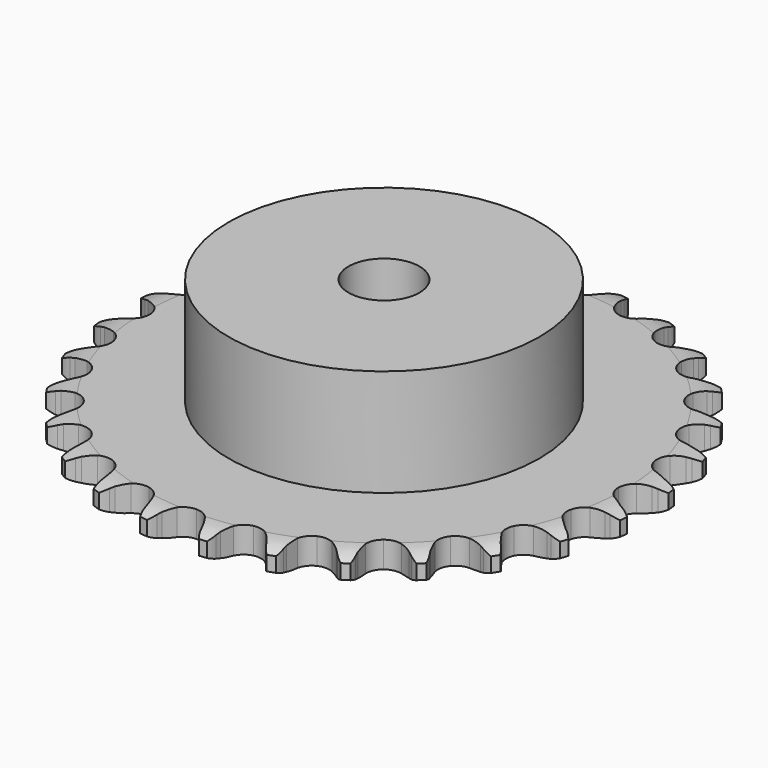
from build123d import *

# Parameters (mm, degrees)
PAD_DEPTH         = 5.9
SKETCH001_R       = 35
PAD001_DEPTH      = 30
SKETCH002_R       = 8
POCKET_DEPTH      = 0.001
POCKET_DEPTH_BACK = 30.001


with BuildPart() as part:
    # Sprocket → Pad (new body)
    with BuildSketch(Plane.XY):
        with BuildLine():
            ThreePointArc((-6.807169, 60.415297), (-5.673583, 59.223567), (-4.885801, 57.779739))
            Line((-4.885801, 57.779739), (-4.508176, 56.803276))
            ThreePointArc((-4.508176, 56.803276), (-3.907565, 55.523602), (-3.134704, 54.339971))
            ThreePointArc((-3.134704, 54.339971), (-1.750273, 53.192925), (0, 52.781942))
            ThreePointArc((0, 52.781942), (1.750273, 53.192925), (3.134704, 54.339971))
            ThreePointArc((3.134704, 54.339971), (3.907565, 55.523602), (4.508176, 56.803276))
            Line((4.508176, 56.803276), (4.885801, 57.779739))
            ThreePointArc((4.885801, 57.779739), (5.673583, 59.223567), (6.807169, 60.415297))
            ThreePointArc((6.807169, 60.415297), (7.647149, 59.001199), (8.093898, 57.418273))
            Line((8.093898, 57.418273), (8.244772, 56.382263))
            ThreePointArc((8.244772, 56.382263), (8.545569, 55.001025), (9.035671, 53.675092))
            ThreePointArc((9.035671, 53.675092), (10.130149, 52.24874), (11.745087, 51.458589))
            ThreePointArc((11.745087, 51.458589), (13.542929, 51.469795), (15.147891, 52.280018))
            Line((15.147891, 52.280018), (17.035064, 54.375936))
            ThreePointArc((17.035064, 54.375936), (17.316567, 54.817478), (17.620505, 55.243887))
            ThreePointArc((17.620505, 55.243887), (18.709818, 56.476217), (20.080167, 57.385822))
            ThreePointArc((20.080167, 57.385822), (20.584421, 55.820265), (20.667735, 54.177615))
            Line((20.667735, 54.177615), (20.584292, 53.134007))
            ThreePointArc((20.584292, 53.134007), (20.570194, 51.720466), (20.75296, 50.318719))
            ThreePointArc((20.75296, 50.318719), (21.502604, 48.684585), (22.901226, 47.554887))
            ThreePointArc((22.901226, 47.554887), (24.656487, 47.165755), (26.4015, 47.598526))
            Line((26.4015, 47.598526), (28.707744, 49.221959))
            ThreePointArc((28.707744, 49.221959), (29.080441, 49.589791), (29.471644, 49.937876))
            ThreePointArc((29.471644, 49.937876), (30.807864, 50.896915), (32.346262, 51.478782))
            ThreePointArc((32.346262, 51.478782), (32.489504, 49.84027), (32.205205, 48.220266))
            Line((32.205205, 48.220266), (31.89163, 47.221391))
            ThreePointArc((31.89163, 47.221391), (31.563342, 45.846427), (31.429608, 44.439156))
            ThreePointArc((31.429608, 44.439156), (31.796828, 42.679181), (32.909003, 41.266584))
            ThreePointArc((32.909003, 41.266584), (34.533665, 40.496626), (36.331228, 40.530245))
            Line((36.331228, 40.530245), (38.940897, 41.599788))
            ThreePointArc((38.940897, 41.599788), (39.3861, 41.875464), (39.844951, 42.127772))
            ThreePointArc((39.844951, 42.127772), (41.361075, 42.765428), (42.990381, 42.990381))
            ThreePointArc((42.990381, 42.990381), (42.765428, 41.361075), (42.127772, 39.844951))
            Line((42.127772, 39.844951), (41.599788, 38.940897))
            ThreePointArc((41.599788, 38.940897), (40.973773, 37.673457), (40.530245, 36.331228))
            ThreePointArc((40.530245, 36.331228), (40.496626, 34.533665), (41.266584, 32.909003))
            ThreePointArc((41.266584, 32.909003), (42.679181, 31.796828), (44.439156, 31.429608))
            Line((44.439156, 31.429608), (47.221391, 31.89163))
            ThreePointArc((47.221391, 31.89163), (47.716776, 32.061327), (48.220266, 32.205205))
            ThreePointArc((48.220266, 32.205205), (49.84027, 32.489504), (51.478782, 32.346262))
            ThreePointArc((51.478782, 32.346262), (50.896915, 30.807864), (49.937876, 29.471644))
            Line((49.937876, 29.471644), (49.221959, 28.707744))
            ThreePointArc((49.221959, 28.707744), (48.329608, 27.611383), (47.598526, 26.4015))
            ThreePointArc((47.598526, 26.4015), (47.165755, 24.656487), (47.554887, 22.901226))
            ThreePointArc((47.554887, 22.901226), (48.684585, 21.502604), (50.318719, 20.75296))
            Line((50.318719, 20.75296), (53.134007, 20.584292))
            ThreePointArc((53.134007, 20.584292), (53.654733, 20.639501), (54.177615, 20.667735))
            ThreePointArc((54.177615, 20.667735), (55.820265, 20.584421), (57.385822, 20.080167))
            ThreePointArc((57.385822, 20.080167), (56.476217, 18.709818), (55.243887, 17.620505))
            Line((55.243887, 17.620505), (54.375936, 17.035064))
            ThreePointArc((54.375936, 17.035064), (53.261995, 16.164758), (52.280018, 15.147891))
            ThreePointArc((52.280018, 15.147891), (51.469795, 13.542929), (51.458589, 11.745087))
            ThreePointArc((51.458589, 11.745087), (52.24874, 10.130149), (53.675092, 9.035671))
            Line((53.675092, 9.035671), (56.382263, 8.244772))
            ThreePointArc((56.382263, 8.244772), (56.902218, 8.182724), (57.418273, 8.093898))
            ThreePointArc((57.418273, 8.093898), (59.001199, 7.647149), (60.415297, 6.807169))
            ThreePointArc((60.415297, 6.807169), (59.223567, 5.673583), (57.779739, 4.885801))
            Line((57.779739, 4.885801), (56.803276, 4.508176))
            ThreePointArc((56.803276, 4.508176), (55.523602, 3.907565), (54.339971, 3.134704))
            ThreePointArc((54.339971, 3.134704), (53.192925, 1.750273), (52.781942, 0))
            ThreePointArc((52.781942, 0), (53.192925, -1.750273), (54.339971, -3.134704))
            Line((54.339971, -3.134704), (56.803276, -4.508176))
            ThreePointArc((56.803276, -4.508176), (57.296388, -4.684368), (57.779739, -4.885801))
            ThreePointArc((57.779739, -4.885801), (59.223567, -5.673583), (60.415297, -6.807169))
            ThreePointArc((60.415297, -6.807169), (59.001199, -7.647149), (57.418273, -8.093898))
            Line((57.418273, -8.093898), (56.382263, -8.244772))
            ThreePointArc((56.382263, -8.244772), (55.001025, -8.545569), (53.675092, -9.035671))
            ThreePointArc((53.675092, -9.035671), (52.24874, -10.130149), (51.458589, -11.745087))
            ThreePointArc((51.458589, -11.745087), (51.469795, -13.542929), (52.280018, -15.147891))
            Line((52.280018, -15.147891), (54.375936, -17.035064))
            ThreePointArc((54.375936, -17.035064), (54.817478, -17.316567), (55.243887, -17.620505))
            ThreePointArc((55.243887, -17.620505), (56.476217, -18.709818), (57.385822, -20.080167))
            ThreePointArc((57.385822, -20.080167), (55.820265, -20.584421), (54.177615, -20.667735))
            Line((54.177615, -20.667735), (53.134007, -20.584292))
            ThreePointArc((53.134007, -20.584292), (51.720466, -20.570194), (50.318719, -20.75296))
            ThreePointArc((50.318719, -20.75296), (48.684585, -21.502604), (47.554887, -22.901226))
            ThreePointArc((47.554887, -22.901226), (47.165755, -24.656487), (47.598526, -26.4015))
            Line((47.598526, -26.4015), (49.221959, -28.707744))
            ThreePointArc((49.221959, -28.707744), (49.589791, -29.080441), (49.937876, -29.471644))
            ThreePointArc((49.937876, -29.471644), (50.896915, -30.807864), (51.478782, -32.346262))
            ThreePointArc((51.478782, -32.346262), (49.84027, -32.489504), (48.220266, -32.205205))
            Line((48.220266, -32.205205), (47.221391, -31.89163))
            ThreePointArc((47.221391, -31.89163), (45.846427, -31.563342), (44.439156, -31.429608))
            ThreePointArc((44.439156, -31.429608), (42.679181, -31.796828), (41.266584, -32.909003))
            ThreePointArc((41.266584, -32.909003), (40.496626, -34.533665), (40.530245, -36.331228))
            Line((40.530245, -36.331228), (41.599788, -38.940897))
            ThreePointArc((41.599788, -38.940897), (41.875464, -39.3861), (42.127772, -39.844951))
            ThreePointArc((42.127772, -39.844951), (42.765428, -41.361075), (42.990381, -42.990381))
            ThreePointArc((42.990381, -42.990381), (41.361075, -42.765428), (39.844951, -42.127772))
            Line((39.844951, -42.127772), (38.940897, -41.599788))
            ThreePointArc((38.940897, -41.599788), (37.673457, -40.973773), (36.331228, -40.530245))
            ThreePointArc((36.331228, -40.530245), (34.533665, -40.496626), (32.909003, -41.266584))
            ThreePointArc((32.909003, -41.266584), (31.796828, -42.679181), (31.429608, -44.439156))
            Line((31.429608, -44.439156), (31.89163, -47.221391))
            ThreePointArc((31.89163, -47.221391), (32.061327, -47.716776), (32.205205, -48.220266))
            ThreePointArc((32.205205, -48.220266), (32.489504, -49.84027), (32.346262, -51.478782))
            ThreePointArc((32.346262, -51.478782), (30.807864, -50.896915), (29.471644, -49.937876))
            Line((29.471644, -49.937876), (28.707744, -49.221959))
            ThreePointArc((28.707744, -49.221959), (27.611383, -48.329608), (26.4015, -47.598526))
            ThreePointArc((26.4015, -47.598526), (24.656487, -47.165755), (22.901226, -47.554887))
            ThreePointArc((22.901226, -47.554887), (21.502604, -48.684585), (20.75296, -50.318719))
            Line((20.75296, -50.318719), (20.584292, -53.134007))
            ThreePointArc((20.584292, -53.134007), (20.639501, -53.654733), (20.667735, -54.177615))
            ThreePointArc((20.667735, -54.177615), (20.584421, -55.820265), (20.080167, -57.385822))
            ThreePointArc((20.080167, -57.385822), (18.709818, -56.476217), (17.620505, -55.243887))
            Line((17.620505, -55.243887), (17.035064, -54.375936))
            ThreePointArc((17.035064, -54.375936), (16.164758, -53.261995), (15.147891, -52.280018))
            ThreePointArc((15.147891, -52.280018), (13.542929, -51.469795), (11.745087, -51.458589))
            ThreePointArc((11.745087, -51.458589), (10.130149, -52.24874), (9.035671, -53.675092))
            Line((9.035671, -53.675092), (8.244772, -56.382263))
            ThreePointArc((8.244772, -56.382263), (8.182724, -56.902218), (8.093898, -57.418273))
            ThreePointArc((8.093898, -57.418273), (7.647149, -59.001199), (6.807169, -60.415297))
            ThreePointArc((6.807169, -60.415297), (5.673583, -59.223567), (4.885801, -57.779739))
            Line((4.885801, -57.779739), (4.508176, -56.803276))
            ThreePointArc((4.508176, -56.803276), (3.907565, -55.523602), (3.134704, -54.339971))
            ThreePointArc((3.134704, -54.339971), (1.750273, -53.192925), (0, -52.781942))
            ThreePointArc((0, -52.781942), (-1.750273, -53.192925), (-3.134704, -54.339971))
            Line((-3.134704, -54.339971), (-4.508176, -56.803276))
            ThreePointArc((-4.508176, -56.803276), (-4.684368, -57.296388), (-4.885801, -57.779739))
            ThreePointArc((-4.885801, -57.779739), (-5.673583, -59.223567), (-6.807169, -60.415297))
            ThreePointArc((-6.807169, -60.415297), (-7.647149, -59.001199), (-8.093898, -57.418273))
            Line((-8.093898, -57.418273), (-8.244772, -56.382263))
            ThreePointArc((-8.244772, -56.382263), (-8.545569, -55.001025), (-9.035671, -53.675092))
            ThreePointArc((-9.035671, -53.675092), (-10.130149, -52.24874), (-11.745087, -51.458589))
            ThreePointArc((-11.745087, -51.458589), (-13.542929, -51.469795), (-15.147891, -52.280018))
            Line((-15.147891, -52.280018), (-17.035064, -54.375936))
            ThreePointArc((-17.035064, -54.375936), (-17.316567, -54.817478), (-17.620505, -55.243887))
            ThreePointArc((-17.620505, -55.243887), (-18.709818, -56.476217), (-20.080167, -57.385822))
            ThreePointArc((-20.080167, -57.385822), (-20.584421, -55.820265), (-20.667735, -54.177615))
            Line((-20.667735, -54.177615), (-20.584292, -53.134007))
            ThreePointArc((-20.584292, -53.134007), (-20.570194, -51.720466), (-20.75296, -50.318719))
            ThreePointArc((-20.75296, -50.318719), (-21.502604, -48.684585), (-22.901226, -47.554887))
            ThreePointArc((-22.901226, -47.554887), (-24.656487, -47.165755), (-26.4015, -47.598526))
            Line((-26.4015, -47.598526), (-28.707744, -49.221959))
            ThreePointArc((-28.707744, -49.221959), (-29.080441, -49.589791), (-29.471644, -49.937876))
            ThreePointArc((-29.471644, -49.937876), (-30.807864, -50.896915), (-32.346262, -51.478782))
            ThreePointArc((-32.346262, -51.478782), (-32.489504, -49.84027), (-32.205205, -48.220266))
            Line((-32.205205, -48.220266), (-31.89163, -47.221391))
            ThreePointArc((-31.89163, -47.221391), (-31.563342, -45.846427), (-31.429608, -44.439156))
            ThreePointArc((-31.429608, -44.439156), (-31.796828, -42.679181), (-32.909003, -41.266584))
            ThreePointArc((-32.909003, -41.266584), (-34.533665, -40.496626), (-36.331228, -40.530245))
            Line((-36.331228, -40.530245), (-38.940897, -41.599788))
            ThreePointArc((-38.940897, -41.599788), (-39.3861, -41.875464), (-39.844951, -42.127772))
            ThreePointArc((-39.844951, -42.127772), (-41.361075, -42.765428), (-42.990381, -42.990381))
            ThreePointArc((-42.990381, -42.990381), (-42.765428, -41.361075), (-42.127772, -39.844951))
            Line((-42.127772, -39.844951), (-41.599788, -38.940897))
            ThreePointArc((-41.599788, -38.940897), (-40.973773, -37.673457), (-40.530245, -36.331228))
            ThreePointArc((-40.530245, -36.331228), (-40.496626, -34.533665), (-41.266584, -32.909003))
            ThreePointArc((-41.266584, -32.909003), (-42.679181, -31.796828), (-44.439156, -31.429608))
            Line((-44.439156, -31.429608), (-47.221391, -31.89163))
            ThreePointArc((-47.221391, -31.89163), (-47.716776, -32.061327), (-48.220266, -32.205205))
            ThreePointArc((-48.220266, -32.205205), (-49.84027, -32.489504), (-51.478782, -32.346262))
            ThreePointArc((-51.478782, -32.346262), (-50.896915, -30.807864), (-49.937876, -29.471644))
            Line((-49.937876, -29.471644), (-49.221959, -28.707744))
            ThreePointArc((-49.221959, -28.707744), (-48.329608, -27.611383), (-47.598526, -26.4015))
            ThreePointArc((-47.598526, -26.4015), (-47.165755, -24.656487), (-47.554887, -22.901226))
            ThreePointArc((-47.554887, -22.901226), (-48.684585, -21.502604), (-50.318719, -20.75296))
            Line((-50.318719, -20.75296), (-53.134007, -20.584292))
            ThreePointArc((-53.134007, -20.584292), (-53.654733, -20.639501), (-54.177615, -20.667735))
            ThreePointArc((-54.177615, -20.667735), (-55.820265, -20.584421), (-57.385822, -20.080167))
            ThreePointArc((-57.385822, -20.080167), (-56.476217, -18.709818), (-55.243887, -17.620505))
            Line((-55.243887, -17.620505), (-54.375936, -17.035064))
            ThreePointArc((-54.375936, -17.035064), (-53.261995, -16.164758), (-52.280018, -15.147891))
            ThreePointArc((-52.280018, -15.147891), (-51.469795, -13.542929), (-51.458589, -11.745087))
            ThreePointArc((-51.458589, -11.745087), (-52.24874, -10.130149), (-53.675092, -9.035671))
            Line((-53.675092, -9.035671), (-56.382263, -8.244772))
            ThreePointArc((-56.382263, -8.244772), (-56.902218, -8.182724), (-57.418273, -8.093898))
            ThreePointArc((-57.418273, -8.093898), (-59.001199, -7.647149), (-60.415297, -6.807169))
            ThreePointArc((-60.415297, -6.807169), (-59.223567, -5.673583), (-57.779739, -4.885801))
            Line((-57.779739, -4.885801), (-56.803276, -4.508176))
            ThreePointArc((-56.803276, -4.508176), (-55.523602, -3.907565), (-54.339971, -3.134704))
            ThreePointArc((-54.339971, -3.134704), (-53.192925, -1.750273), (-52.781942, 0))
            ThreePointArc((-52.781942, 0), (-53.192925, 1.750273), (-54.339971, 3.134704))
            Line((-54.339971, 3.134704), (-56.803276, 4.508176))
            ThreePointArc((-56.803276, 4.508176), (-57.296388, 4.684368), (-57.779739, 4.885801))
            ThreePointArc((-57.779739, 4.885801), (-59.223567, 5.673583), (-60.415297, 6.807169))
            ThreePointArc((-60.415297, 6.807169), (-59.001199, 7.647149), (-57.418273, 8.093898))
            Line((-57.418273, 8.093898), (-56.382263, 8.244772))
            ThreePointArc((-56.382263, 8.244772), (-55.001025, 8.545569), (-53.675092, 9.035671))
            ThreePointArc((-53.675092, 9.035671), (-52.24874, 10.130149), (-51.458589, 11.745087))
            ThreePointArc((-51.458589, 11.745087), (-51.469795, 13.542929), (-52.280018, 15.147891))
            Line((-52.280018, 15.147891), (-54.375936, 17.035064))
            ThreePointArc((-54.375936, 17.035064), (-54.817478, 17.316567), (-55.243887, 17.620505))
            ThreePointArc((-55.243887, 17.620505), (-56.476217, 18.709818), (-57.385822, 20.080167))
            ThreePointArc((-57.385822, 20.080167), (-55.820265, 20.584421), (-54.177615, 20.667735))
            Line((-54.177615, 20.667735), (-53.134007, 20.584292))
            ThreePointArc((-53.134007, 20.584292), (-51.720466, 20.570194), (-50.318719, 20.75296))
            ThreePointArc((-50.318719, 20.75296), (-48.684585, 21.502604), (-47.554887, 22.901226))
            ThreePointArc((-47.554887, 22.901226), (-47.165755, 24.656487), (-47.598526, 26.4015))
            Line((-47.598526, 26.4015), (-49.221959, 28.707744))
            ThreePointArc((-49.221959, 28.707744), (-49.589791, 29.080441), (-49.937876, 29.471644))
            ThreePointArc((-49.937876, 29.471644), (-50.896915, 30.807864), (-51.478782, 32.346262))
            ThreePointArc((-51.478782, 32.346262), (-49.84027, 32.489504), (-48.220266, 32.205205))
            Line((-48.220266, 32.205205), (-47.221391, 31.89163))
            ThreePointArc((-47.221391, 31.89163), (-45.846427, 31.563342), (-44.439156, 31.429608))
            ThreePointArc((-44.439156, 31.429608), (-42.679181, 31.796828), (-41.266584, 32.909003))
            ThreePointArc((-41.266584, 32.909003), (-40.496626, 34.533665), (-40.530245, 36.331228))
            Line((-40.530245, 36.331228), (-41.599788, 38.940897))
            ThreePointArc((-41.599788, 38.940897), (-41.875464, 39.3861), (-42.127772, 39.844951))
            ThreePointArc((-42.127772, 39.844951), (-42.765428, 41.361075), (-42.990381, 42.990381))
            ThreePointArc((-42.990381, 42.990381), (-41.361075, 42.765428), (-39.844951, 42.127772))
            Line((-39.844951, 42.127772), (-38.940897, 41.599788))
            ThreePointArc((-38.940897, 41.599788), (-37.673457, 40.973773), (-36.331228, 40.530245))
            ThreePointArc((-36.331228, 40.530245), (-34.533665, 40.496626), (-32.909003, 41.266584))
            ThreePointArc((-32.909003, 41.266584), (-31.796828, 42.679181), (-31.429608, 44.439156))
            Line((-31.429608, 44.439156), (-31.89163, 47.221391))
            ThreePointArc((-31.89163, 47.221391), (-32.061327, 47.716776), (-32.205205, 48.220266))
            ThreePointArc((-32.205205, 48.220266), (-32.489504, 49.84027), (-32.346262, 51.478782))
            ThreePointArc((-32.346262, 51.478782), (-30.807864, 50.896915), (-29.471644, 49.937876))
            Line((-29.471644, 49.937876), (-28.707744, 49.221959))
            ThreePointArc((-28.707744, 49.221959), (-27.611383, 48.329608), (-26.4015, 47.598526))
            ThreePointArc((-26.4015, 47.598526), (-24.656487, 47.165755), (-22.901226, 47.554887))
            ThreePointArc((-22.901226, 47.554887), (-21.502604, 48.684585), (-20.75296, 50.318719))
            Line((-20.75296, 50.318719), (-20.584292, 53.134007))
            ThreePointArc((-20.584292, 53.134007), (-20.639501, 53.654733), (-20.667735, 54.177615))
            ThreePointArc((-20.667735, 54.177615), (-20.584421, 55.820265), (-20.080167, 57.385822))
            ThreePointArc((-20.080167, 57.385822), (-18.709818, 56.476217), (-17.620505, 55.243887))
            Line((-17.620505, 55.243887), (-17.035064, 54.375936))
            ThreePointArc((-17.035064, 54.375936), (-16.164758, 53.261995), (-15.147891, 52.280018))
            ThreePointArc((-15.147891, 52.280018), (-13.542929, 51.469795), (-11.745087, 51.458589))
            ThreePointArc((-11.745087, 51.458589), (-10.130149, 52.24874), (-9.035671, 53.675092))
            Line((-9.035671, 53.675092), (-8.244772, 56.382263))
            ThreePointArc((-8.244772, 56.382263), (-8.182724, 56.902218), (-8.093898, 57.418273))
            ThreePointArc((-8.093898, 57.418273), (-7.647149, 59.001199), (-6.807169, 60.415297))
        make_face()
    extrude(amount=PAD_DEPTH)

    # Sketch → Groove (revolve, cut)
    with BuildSketch(Plane.XZ):
        with BuildLine():
            Line((54.033431, 0), (59.7, 0))
            Line((65.366569, 0), (59.7, 0))
            Line((65.366569, 5.9), (65.366569, 0))
            Line((59.7, 5.9), (65.366569, 5.9))
            Line((54.033431, 5.9), (59.7, 5.9))
            ThreePointArc((59.7, 4.6), (56.94032, 5.570833), (54.033431, 5.9))
            Line((59.7, 1.3), (59.7, 4.6))
            ThreePointArc((54.033431, 0), (56.94032, 0.329167), (59.7, 1.3))
        make_face()
    revolve(axis=Axis((0, 0, 0), (0, 0, 1)), mode=Mode.SUBTRACT)

    # Sketch001 → Pad001 (join)
    with BuildSketch(Plane.XY):
        Circle(SKETCH001_R)
    extrude(amount=PAD001_DEPTH)

    # Sketch002 → Pocket (cut, two sides)
    with BuildSketch(Plane.XY) as pocket_sk:
        Circle(SKETCH002_R)
    extrude(amount=-POCKET_DEPTH, mode=Mode.SUBTRACT)
    extrude(pocket_sk.sketch, amount=POCKET_DEPTH_BACK, mode=Mode.SUBTRACT)


solid = part.part
